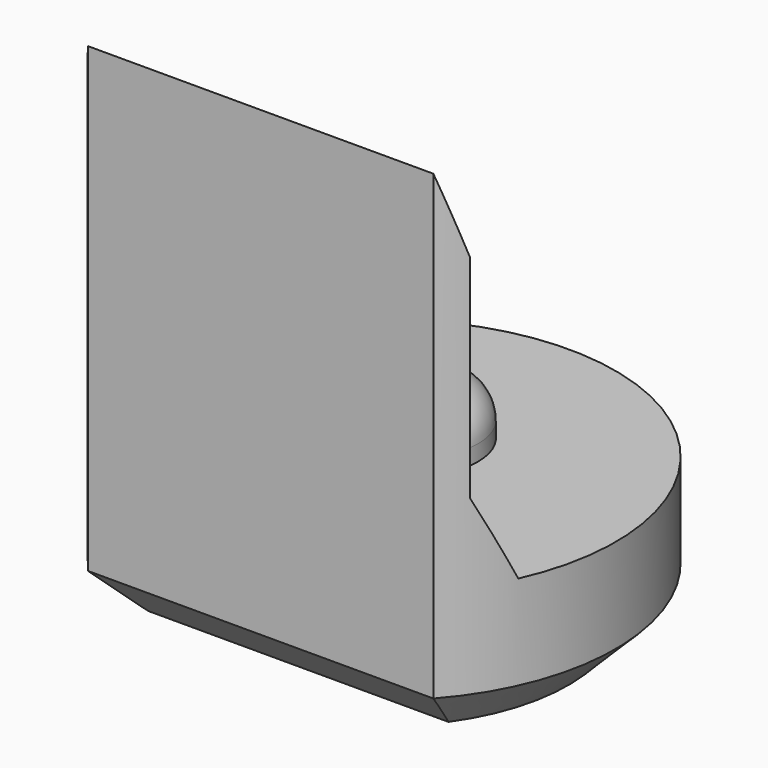
from build123d import *

# Parameters (mm, degrees)
PAD003_DEPTH         = 6.5
POCKET004_DEPTH      = 2.951
POCKET004_DEPTH_BACK = 2.951
SKETCH013_R          = 0.8
PAD006_DEPTH         = 0.7
FILLET_R             = 0.5
CHAMFER004_SIZE      = 0.6


with BuildPart() as part:
    # Sketch004 → Pad003 (new body)
    with BuildSketch(Plane.XY):
        with BuildLine():
            ThreePointArc((2.2, -1.9653244007), (0, 2.95), (-2.2, -1.9653244007))
            Line((-2.2, -1.9653244007), (2.2, -1.9653244007))
        make_face()
    extrude(amount=PAD003_DEPTH)

    # Sketch014 → Pocket004 (cut, two sides)
    with BuildSketch(Plane.YZ) as pocket004_sk:
        Polygon((-1.97, 6.5), (-1.67, 5.5), (-1.67, 2.8), (-1.22, 1.8), (4, 1.8), (4, 6.5), align=None)
    extrude(amount=-POCKET004_DEPTH, mode=Mode.SUBTRACT)
    extrude(pocket004_sk.sketch, amount=POCKET004_DEPTH_BACK, mode=Mode.SUBTRACT)

    # Sketch013 (on Face7 of Pocket004) → Pad006 (join)
    with BuildSketch(Plane.XY.offset(1.8)):
        with Locations((0, 0.5)):
            Circle(SKETCH013_R)
    extrude(amount=PAD006_DEPTH)

    # Fillet
    fillet_edges = [part.edges().sort_by_distance(p)[0] for p in [
        (-0.8, 0.5, 2.5),
    ]]
    fillet(fillet_edges, radius=FILLET_R)

    # Chamfer004
    chamfer004_edges = [part.edges().sort_by_distance(p)[0] for p in [
        (0, 2.95, 0),
        (0, -1.965324, 0),
    ]]
    chamfer(chamfer004_edges, length=CHAMFER004_SIZE)


with BuildPart() as part_1:
    # Body020 placement: moved
    add(part.part.moved(Location((0, 6, 0))))


solid = part_1.part
